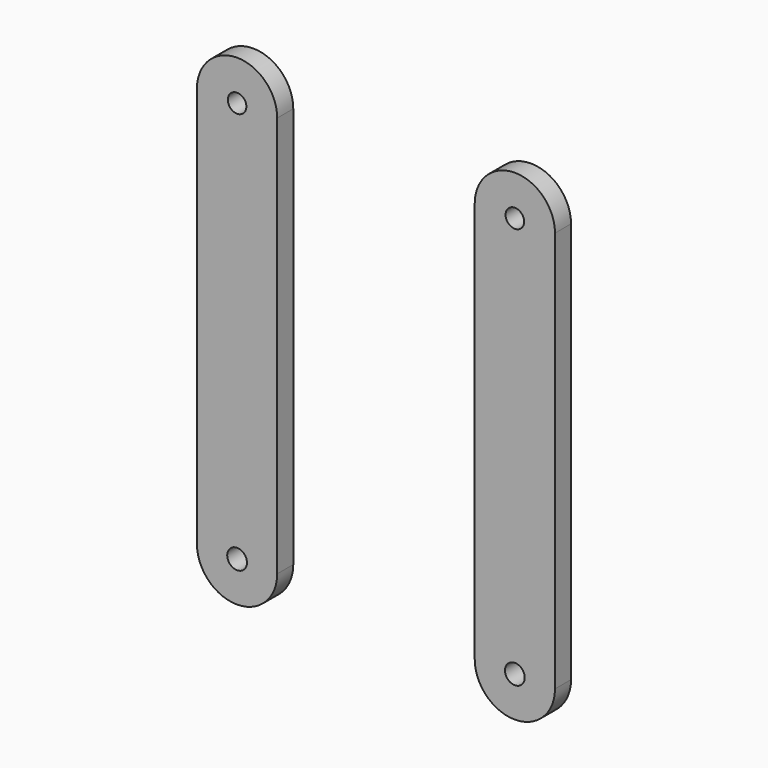
from build123d import *

# Parameters (mm, degrees)
F0_R     = 3.126545
F0_R_2   = 2.937388
F1_DEPTH = 6.35


with BuildPart() as f1:
    # F0 (on Front) → F1 (new body)
    with BuildSketch(Plane.XZ):
        with BuildLine():
            ThreePointArc((38.058424, 60.624463), (25.358424, 73.324463), (12.658424, 60.624463))
            Line((12.658424, 60.624463), (12.658424, -66.375537))
            ThreePointArc((12.658424, -66.375537), (25.358424, -79.075537), (38.058424, -66.375537))
            Line((38.058424, -66.375537), (38.058424, 60.624463))
        make_face()
        with Locations((25.358424, -66.375537)):
            Circle(F0_R, mode=Mode.SUBTRACT)
        with Locations((25.358424, 60.624463)):
            Circle(F0_R_2, mode=Mode.SUBTRACT)
        with BuildLine():
            ThreePointArc((-49.85665, 64.089915), (-62.55665, 76.789915), (-75.25665, 64.089915))
            Line((-75.25665, 64.089915), (-75.25665, -62.910085))
            ThreePointArc((-75.25665, -62.910085), (-62.55665, -75.610085), (-49.85665, -62.910085))
            Line((-49.85665, -62.910085), (-49.85665, 64.089915))
        make_face()
        with Locations((-62.55665, -62.910085)):
            Circle(F0_R, mode=Mode.SUBTRACT)
        with Locations((-62.55665, 64.089915)):
            Circle(F0_R_2, mode=Mode.SUBTRACT)
    extrude(amount=F1_DEPTH)


solid = f1.part
